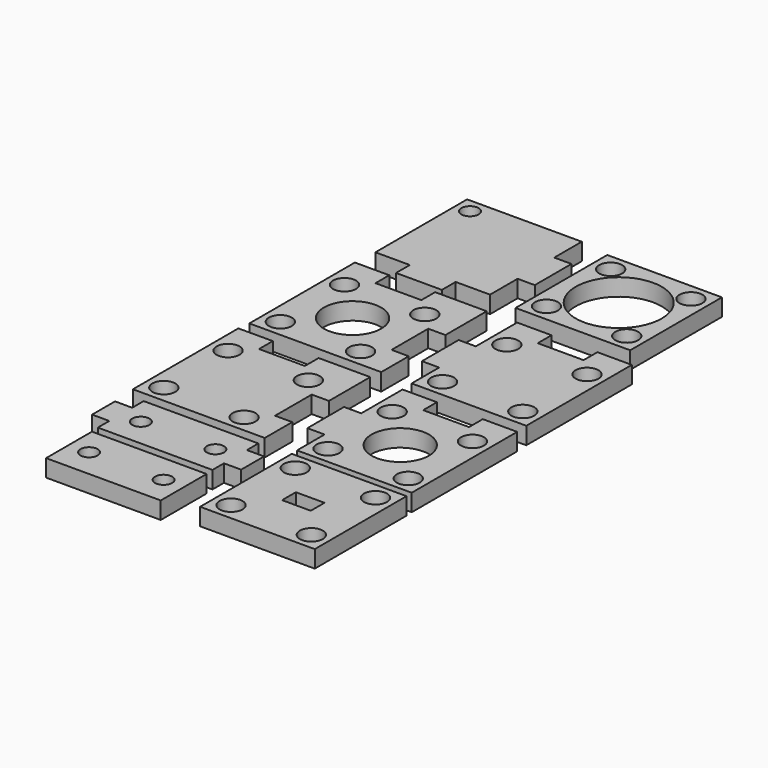
from build123d import *

# Parameters (mm, degrees)
F0_W      = 20
F0_H      = 20
F0_R      = 2
F0_R_2    = 7.5
F1_DEPTH  = 3
F2_R      = 2
F2_R_2    = 5
F3_DEPTH  = 3
F4_R      = 1.5
F5_DEPTH  = 3
F6_R      = 2
F7_DEPTH  = 3
F8_R      = 2
F8_R_2    = 5
F9_DEPTH  = 3
F10_R     = 2
F11_DEPTH = 3
F12_W     = 20
F12_H     = 20
F12_R     = 2
F12_W_2   = 5
F12_H_2   = 3
F13_DEPTH = 3
F14_R     = 1.5
F15_DEPTH = 3
F16_R     = 1.5
F17_DEPTH = 3


with BuildPart() as f1:
    # F0 (on Top) → F1 (new body)
    with BuildSketch(Plane.XY):
        with Locations((61.058189, 54.841891)):
            Rectangle(F0_W, F0_H)
        with Locations((54.058189, 47.841891)):
            Circle(F0_R, mode=Mode.SUBTRACT)
        with Locations((68.058189, 47.841891)):
            Circle(F0_R, mode=Mode.SUBTRACT)
        with Locations((54.058189, 61.841891)):
            Circle(F0_R, mode=Mode.SUBTRACT)
        with Locations((61.058189, 54.841891)):
            Circle(F0_R_2, mode=Mode.SUBTRACT)
        with Locations((68.058189, 61.841891)):
            Circle(F0_R, mode=Mode.SUBTRACT)
    extrude(amount=F1_DEPTH)


with BuildPart() as f3:
    # F2 (on Top) → F3 (new body)
    with BuildSketch(Plane.XY):
        Polygon((25.600001, 18.627273), (45.600001, 18.627273), (48.600001, 18.627273), (48.600001, 24.627273), (45.600001, 24.627273), (45.600001, 32.627273), (48.600001, 32.627273), (48.600001, 38.627273), (48.600001, 41.627273), (39.600001, 41.627273), (39.600001, 38.627273), (31.600001, 38.627273), (31.600001, 41.627273), (25.600001, 41.627273), (25.600001, 38.627273), align=None)
        with Locations((28.600001, 21.627273)):
            Circle(F2_R, mode=Mode.SUBTRACT)
        with Locations((35.600001, 28.627273)):
            Circle(F2_R_2, mode=Mode.SUBTRACT)
        with Locations((42.600001, 21.627273)):
            Circle(F2_R, mode=Mode.SUBTRACT)
        with Locations((28.600001, 35.627273)):
            Circle(F2_R, mode=Mode.SUBTRACT)
        with Locations((42.600001, 35.627273)):
            Circle(F2_R, mode=Mode.SUBTRACT)
    extrude(amount=F3_DEPTH)


with BuildPart() as f5:
    # F4 (on Top) → F5 (new body)
    with BuildSketch(Plane.XY):
        Polygon((45.9, 65.732138), (25.9, 65.732138), (25.9, 45.732138), (31.9, 45.732138), (31.9, 42.732138), (39.9, 42.732138), (39.9, 45.732138), (45.9, 45.732138), (45.9, 51.732138), (48.9, 51.732138), (48.9, 59.732138), (45.9, 59.732138), align=None)
        with Locations((28.4, 63.232138)):
            Circle(F4_R, mode=Mode.SUBTRACT)
    extrude(amount=F5_DEPTH)


with BuildPart() as f7:
    # F6 (on Top) → F7 (new body)
    with BuildSketch(Plane.XY):
        Polygon((53.916613, 18.609276), (73.916613, 18.609276), (73.916613, 38.609276), (73.916613, 41.609276), (67.916613, 41.609276), (67.916613, 38.609276), (59.916613, 38.609276), (59.916613, 41.609276), (53.916613, 41.609276), (53.916613, 38.609276), (53.916613, 32.609276), (50.916613, 32.609276), (50.916613, 24.609276), (53.916613, 24.609276), align=None)
        with Locations((56.916613, 21.609276)):
            Circle(F6_R, mode=Mode.SUBTRACT)
        with Locations((70.916613, 21.609276)):
            Circle(F6_R, mode=Mode.SUBTRACT)
        with Locations((56.916613, 35.609276)):
            Circle(F6_R, mode=Mode.SUBTRACT)
        with Locations((70.916613, 35.609276)):
            Circle(F6_R, mode=Mode.SUBTRACT)
    extrude(amount=F7_DEPTH)


with BuildPart() as f9:
    # F8 (on Top) → F9 (new body)
    with BuildSketch(Plane.XY):
        Polygon((54.070827, -6.566667), (74.070827, -6.566667), (74.070827, 13.433333), (74.070827, 16.433333), (68.070827, 16.433333), (68.070827, 13.433333), (60.070827, 13.433333), (60.070827, 16.433333), (54.070827, 16.433333), (54.070827, 13.433333), (54.070827, 7.433333), (51.070827, 7.433333), (51.070827, -0.566667), (54.070827, -0.566667), align=None)
        with Locations((57.070827, -3.566667)):
            Circle(F8_R, mode=Mode.SUBTRACT)
        with Locations((71.070827, -3.566667)):
            Circle(F8_R, mode=Mode.SUBTRACT)
        with Locations((64.070827, 3.433333)):
            Circle(F8_R_2, mode=Mode.SUBTRACT)
        with Locations((57.070827, 10.433333)):
            Circle(F8_R, mode=Mode.SUBTRACT)
        with Locations((71.070827, 10.433333)):
            Circle(F8_R, mode=Mode.SUBTRACT)
    extrude(amount=F9_DEPTH)


with BuildPart() as f11:
    # F10 (on Top) → F11 (new body)
    with BuildSketch(Plane.XY):
        Polygon((25.345458, -6.454545), (45.345458, -6.454545), (48.345458, -6.454545), (48.345458, -0.454545), (45.345458, -0.454545), (45.345458, 7.545455), (48.345458, 7.545455), (48.345458, 13.545455), (48.345458, 16.545455), (39.345458, 16.545455), (39.345458, 13.545455), (31.345458, 13.545455), (31.345458, 16.545455), (25.345458, 16.545455), (25.345458, 13.545455), align=None)
        with Locations((28.345458, -3.454545)):
            Circle(F10_R, mode=Mode.SUBTRACT)
        with Locations((42.345458, -3.454545)):
            Circle(F10_R, mode=Mode.SUBTRACT)
        with Locations((28.345458, 10.545455)):
            Circle(F10_R, mode=Mode.SUBTRACT)
        with Locations((42.345458, 10.545455)):
            Circle(F10_R, mode=Mode.SUBTRACT)
    extrude(amount=F11_DEPTH)


with BuildPart() as f13:
    # F12 (on Top) → F13 (new body)
    with BuildSketch(Plane.XY):
        with Locations((64.150047, -17.802756)):
            Rectangle(F12_W, F12_H)
        with Locations((57.150047, -24.802756)):
            Circle(F12_R, mode=Mode.SUBTRACT)
        with Locations((71.150047, -24.802756)):
            Circle(F12_R, mode=Mode.SUBTRACT)
        with Locations((57.150047, -10.802756)):
            Circle(F12_R, mode=Mode.SUBTRACT)
        with Locations((64.150047, -17.802756)):
            Rectangle(F12_W_2, F12_H_2, mode=Mode.SUBTRACT)
        with Locations((71.150047, -10.802756)):
            Circle(F12_R, mode=Mode.SUBTRACT)
    extrude(amount=F13_DEPTH)


with BuildPart() as f15:
    # F14 (on Top) → F15 (new body)
    with BuildSketch(Plane.XY):
        Polygon((48.676475, -8.264391), (28.676475, -8.264391), (28.676475, -10.764391), (25.676475, -10.764391), (25.676475, -15.764391), (28.676475, -15.764391), (28.676475, -18.264391), (48.676475, -18.264391), (48.676475, -15.764391), (51.676475, -15.764391), (51.676475, -10.764391), (48.676475, -10.764391), align=None)
        with Locations((32.176475, -13.264391)):
            Circle(F14_R, mode=Mode.SUBTRACT)
        with Locations((45.176475, -13.264391)):
            Circle(F14_R, mode=Mode.SUBTRACT)
    extrude(amount=F15_DEPTH)


with BuildPart() as f17:
    # F16 (on Top) → F17 (new body)
    with BuildSketch(Plane.XY):
        Polygon((48.800003, -19.700004), (28.800003, -19.700004), (28.800003, -22.200004), (28.800003, -27.200004), (28.800003, -29.700004), (48.800003, -29.700004), (48.800003, -27.200004), (48.800003, -22.200004), align=None)
        with Locations((32.300003, -24.700004)):
            Circle(F16_R, mode=Mode.SUBTRACT)
        with Locations((45.300003, -24.700004)):
            Circle(F16_R, mode=Mode.SUBTRACT)
    extrude(amount=F17_DEPTH)


solid = Compound([f1.part, f3.part, f5.part, f7.part, f9.part, f11.part, f13.part, f15.part, f17.part])
